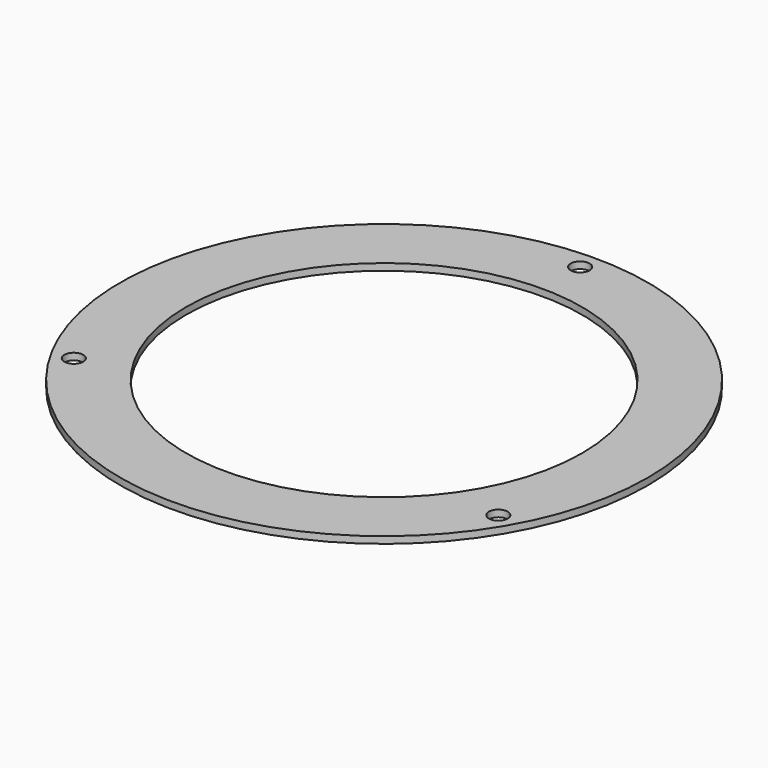
from build123d import *

# Parameters (mm, degrees)
F0_R     = 88.9
F0_R_2   = 3.175
F1_DEPTH = 2.286
F2_R     = 66.675
F3_DEPTH = 25.4


with BuildPart() as f1:
    # F0 (on Top) → F1 (new body)
    with BuildSketch(Plane.XY):
        Circle(F0_R)
        with Locations((-71.490397, -41.275)):
            Circle(F0_R_2, mode=Mode.SUBTRACT)
        with Locations((71.490397, -41.275)):
            Circle(F0_R_2, mode=Mode.SUBTRACT)
        with Locations((0, 82.55)):
            Circle(F0_R_2, mode=Mode.SUBTRACT)
    extrude(amount=F1_DEPTH)

    # F2 (on face) → F3 (cut)
    with BuildSketch(Plane.XY.offset(2.286)):
        Circle(F2_R)
    extrude(amount=-F3_DEPTH, mode=Mode.SUBTRACT)


solid = f1.part
